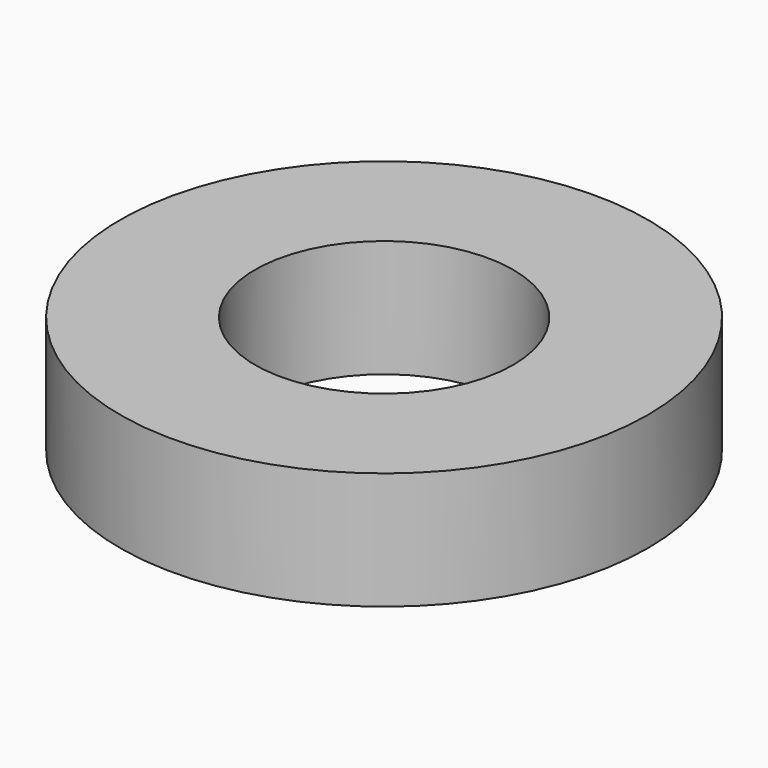
from build123d import *

# Parameters (mm, degrees)
CYLINDER015_R     = 2.2
CYLINDER015_DEPTH = 2
CYLINDER014_R     = 4.5
CYLINDER014_DEPTH = 2


with BuildPart() as cylinder015:
    # Cylinder015 → Cylinder015 (new body)
    with BuildSketch(Plane(origin=(5, 0, -1), x_dir=(1, 0, 0), z_dir=(0, 0, 1))):
        Circle(CYLINDER015_R)
    extrude(amount=CYLINDER015_DEPTH)


with BuildPart() as cut005:
    # Cylinder014 → Cylinder014 (new body)
    with BuildSketch(Plane(origin=(5, 0, -1), x_dir=(1, 0, 0), z_dir=(0, 0, 1))):
        Circle(CYLINDER014_R)
    extrude(amount=CYLINDER014_DEPTH)

    # Cut005: cut Cylinder015
    add(cylinder015.part, mode=Mode.SUBTRACT)


solid = cut005.part
